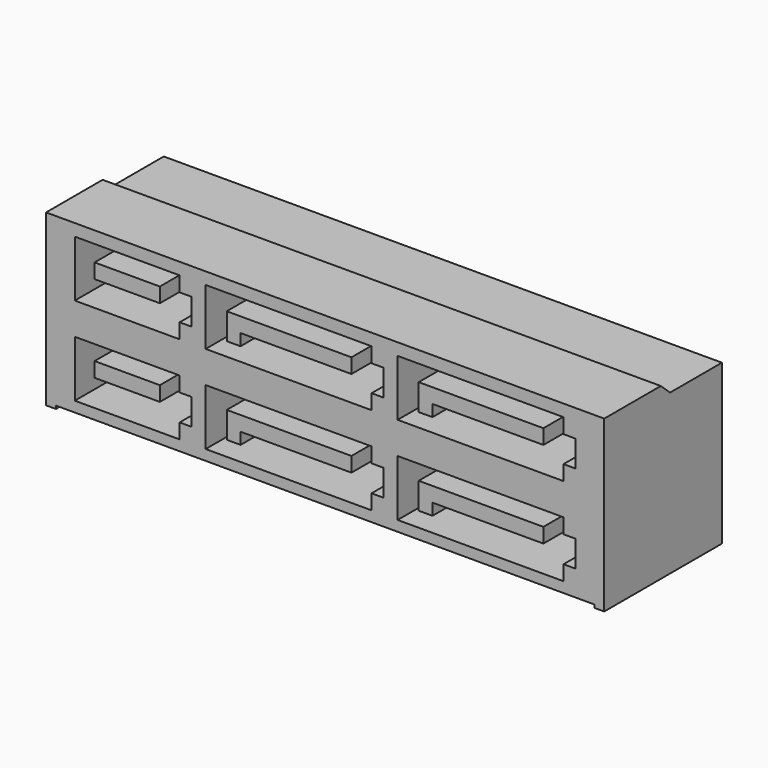
from build123d import *

# Parameters (mm, degrees)
F1_DEPTH = 23.3
F2_W     = 44.94
F2_H     = 0.25
F3_DEPTH = 12.281
F4_W     = 5.45
F4_H     = 1.23
F5_DEPTH = 5.4


with BuildPart() as f1:
    # F0 (on Right) → F1 (new body, symmetric)
    with BuildSketch(Plane.YZ):
        Polygon((-0.24, 14.18), (-6.14, 14.18), (-6.14, 0), (6.14, 0), (6.14, 13.3), (0.73, 13.3), align=None)
    extrude(amount=F1_DEPTH, both=True)

    # F2 (on face) → F3 (cut, through all)
    with BuildSketch(Plane.XZ.offset(6.14)):
        with Locations((0, 0.125)):
            Rectangle(F2_W, F2_H)
    extrude(amount=-F3_DEPTH, mode=Mode.SUBTRACT)

    # F4 (on face) → F5 (cut)
    with BuildSketch(Plane.XZ.offset(6.14)):
        Polygon((-12.15, 5.822), (-20.9, 5.822), (-20.9, 1.122), (-12.15, 1.122), (-12.15, 2.372), (-11.15, 2.372), (-11.15, 4.572), (-12.15, 4.572), align=None)
        with Locations((-16.525, 3.957)):
            Rectangle(F4_W, F4_H, mode=Mode.SUBTRACT)
        Polygon((-9.975, 5.822), (-9.975, 1.122), (3.875, 1.122), (3.875, 2.372), (4.875, 2.372), (4.875, 4.572), (3.875, 4.572), (3.875, 5.822), align=None)
        Polygon((-8.215, 2.372), (-8.215, 4.572), (2.195, 4.572), (2.195, 3.342), (-7.065, 3.342), (-7.065, 2.372), align=None, mode=Mode.SUBTRACT)
        Polygon((6.05, 5.822), (6.05, 1.122), (19.9, 1.122), (19.9, 2.372), (20.9, 2.372), (20.9, 4.572), (19.9, 4.572), (19.9, 5.822), align=None)
        Polygon((7.81, 2.372), (7.81, 4.572), (18.22, 4.572), (18.22, 3.342), (8.96, 3.342), (8.96, 2.372), align=None, mode=Mode.SUBTRACT)
        Polygon((6.05, 8.48), (19.9, 8.48), (19.9, 9.73), (20.9, 9.73), (20.9, 11.93), (19.9, 11.93), (19.9, 13.18), (6.05, 13.18), align=None)
        Polygon((7.81, 11.822), (18.22, 11.822), (18.22, 10.592), (8.96, 10.592), (8.96, 9.622), (7.81, 9.622), align=None, mode=Mode.SUBTRACT)
        Polygon((3.875, 11.93), (3.875, 13.18), (-9.975, 13.18), (-9.975, 8.48), (3.875, 8.48), (3.875, 9.73), (4.875, 9.73), (4.875, 11.93), align=None)
        Polygon((-8.215, 11.822), (2.195, 11.822), (2.195, 10.592), (-7.065, 10.592), (-7.065, 9.622), (-8.215, 9.622), align=None, mode=Mode.SUBTRACT)
        Polygon((-12.15, 11.93), (-12.15, 13.18), (-20.9, 13.18), (-20.9, 8.48), (-12.15, 8.48), (-12.15, 9.73), (-11.15, 9.73), (-11.15, 11.93), align=None)
        with Locations((-16.525, 11.207)):
            Rectangle(F4_W, F4_H, mode=Mode.SUBTRACT)
    extrude(amount=-F5_DEPTH, mode=Mode.SUBTRACT)


solid = f1.part
